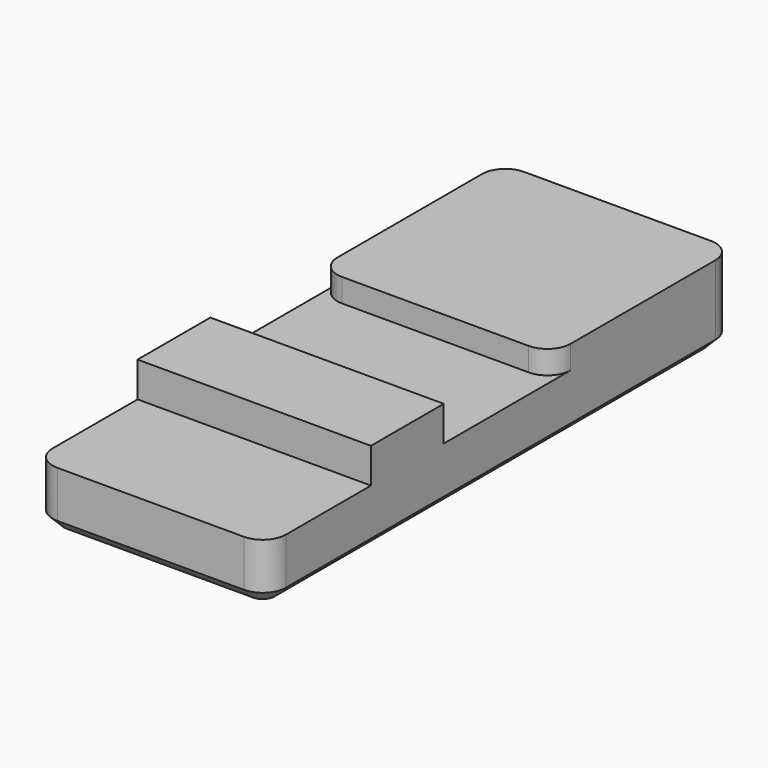
from build123d import *

# Parameters (mm, degrees)
BOX_W        = 20
BOX_H        = 50
BOX_DEPTH    = 5
FILLET_R     = 2
CHAMFER_SIZE = 1
BOX001_W     = 20
BOX001_H     = 7.8
BOX001_DEPTH = 3
BOX002_W     = 20
BOX002_H     = 19.5
BOX002_DEPTH = 2
FILLET001_R  = 2


with BuildPart() as chamfer_body:
    # Box → Box (new body)
    with BuildSketch(Plane.XY):
        with Locations((10, 25)):
            Rectangle(BOX_W, BOX_H)
    extrude(amount=BOX_DEPTH)

    # Fillet
    fillet_edges = [chamfer_body.edges().sort_by_distance(p)[0] for p in [
        (0, 0, 2.5),
        (0, 50, 2.5),
        (20, 0, 2.5),
        (20, 50, 2.5),
    ]]
    fillet(fillet_edges, radius=FILLET_R)

    # Chamfer
    chamfer_edges = [chamfer_body.edges().sort_by_distance(p)[0] for p in [
        (0, 25, 0),
        (0.585786, 0.585786, 0),
        (0.585786, 49.414214, 0),
        (10, 0, 0),
        (19.414214, 0.585786, 0),
        (20, 25, 0),
        (19.414214, 49.414214, 0),
        (10, 50, 0),
    ]]
    chamfer(chamfer_edges, length=CHAMFER_SIZE)


with BuildPart() as cube001:
    # Box001 → Box001 (new body)
    with BuildSketch(Plane(origin=(0, 11.1, 5), x_dir=(1, 0, 0), z_dir=(0, 0, 1))):
        with Locations((10, 3.9)):
            Rectangle(BOX001_W, BOX001_H)
    extrude(amount=BOX001_DEPTH)


with BuildPart() as fusion:
    # Box002 → Box002 (new body)
    with BuildSketch(Plane(origin=(0, 30.5, 5), x_dir=(1, 0, 0), z_dir=(0, 0, 1))):
        with Locations((10, 9.75)):
            Rectangle(BOX002_W, BOX002_H)
    extrude(amount=BOX002_DEPTH)

    # Fillet001
    fillet001_edges = [fusion.edges().sort_by_distance(p)[0] for p in [
        (0, 30.5, 6),
        (0, 50, 6),
        (20, 30.5, 6),
        (20, 50, 6),
    ]]
    fillet(fillet001_edges, radius=FILLET001_R)

    # Fusion: union Chamfer body, Cube001
    add(chamfer_body.part)
    add(cube001.part)


solid = fusion.part
